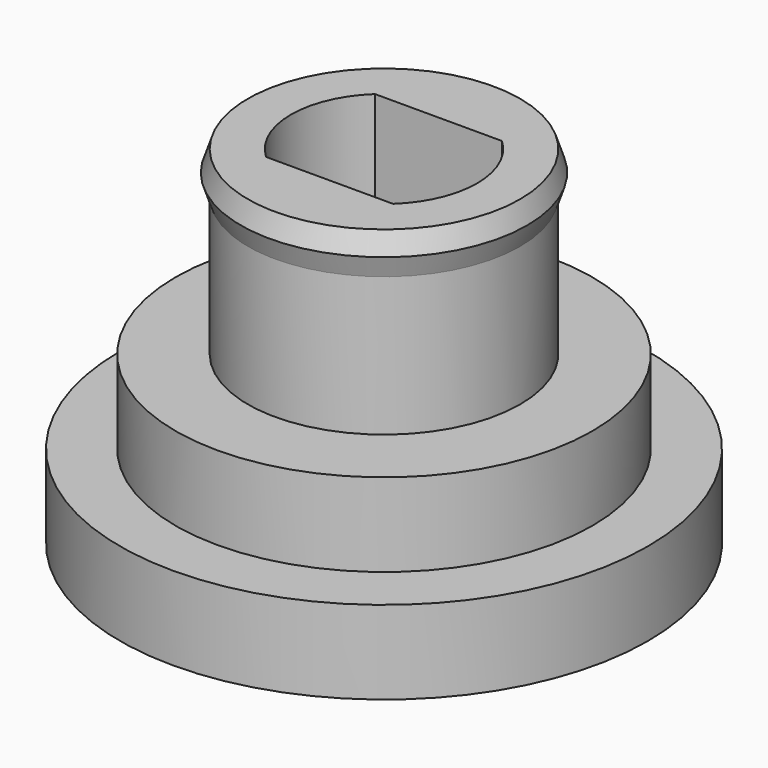
from build123d import *

# Parameters (mm, degrees)
F3_R     = 9.5
F3_R_2   = 7.5
F3_R_3   = 4.9
F4_DEPTH = 3
F5_DEPTH = 6
F6_DEPTH = 12.5


with BuildPart() as f4:
    # F3 (on Top) → F4 (new body)
    with BuildSketch(Plane.XY):
        Circle(F3_R)
        Circle(F3_R_2, mode=Mode.SUBTRACT)
        Circle(F3_R_2)
        Circle(F3_R_3, mode=Mode.SUBTRACT)
        Circle(F3_R_3)
        with BuildLine():
            ThreePointArc((-2.2847319318, -2.45), (-3.35, 0), (-2.2847319318, 2.45))
            Line((-2.2847319318, 2.45), (2.2847319318, 2.45))
            ThreePointArc((2.2847319318, 2.45), (3.35, 0), (2.2847319318, -2.45))
            Line((2.2847319318, -2.45), (-2.2847319318, -2.45))
        make_face(mode=Mode.SUBTRACT)
    extrude(amount=F4_DEPTH)

    # F3 (on Top) → F5 (join)
    with BuildSketch(Plane.XY):
        Circle(F3_R_2)
        Circle(F3_R_3, mode=Mode.SUBTRACT)
        Circle(F3_R_3)
        with BuildLine():
            ThreePointArc((-2.2847319318, -2.45), (-3.35, 0), (-2.2847319318, 2.45))
            Line((-2.2847319318, 2.45), (2.2847319318, 2.45))
            ThreePointArc((2.2847319318, 2.45), (3.35, 0), (2.2847319318, -2.45))
            Line((2.2847319318, -2.45), (-2.2847319318, -2.45))
        make_face(mode=Mode.SUBTRACT)
    extrude(amount=F5_DEPTH)

    # F3 (on Top) → F6 (join)
    with BuildSketch(Plane.XY):
        Circle(F3_R_3)
        with BuildLine():
            ThreePointArc((-2.2847319318, -2.45), (-3.35, 0), (-2.2847319318, 2.45))
            Line((-2.2847319318, 2.45), (2.2847319318, 2.45))
            ThreePointArc((2.2847319318, 2.45), (3.35, 0), (2.2847319318, -2.45))
            Line((2.2847319318, -2.45), (-2.2847319318, -2.45))
        make_face(mode=Mode.SUBTRACT)
    extrude(amount=F6_DEPTH)

    # F7 (on Front) → F8 (revolve)
    with BuildSketch(Plane.XZ):
        Polygon((5.15, 11.75), (4.9, 12.5), (4.9, 11), align=None)
    revolve(axis=Axis((0, 0, 8.7542282417), (0, 0, 1)))


solid = f4.part
